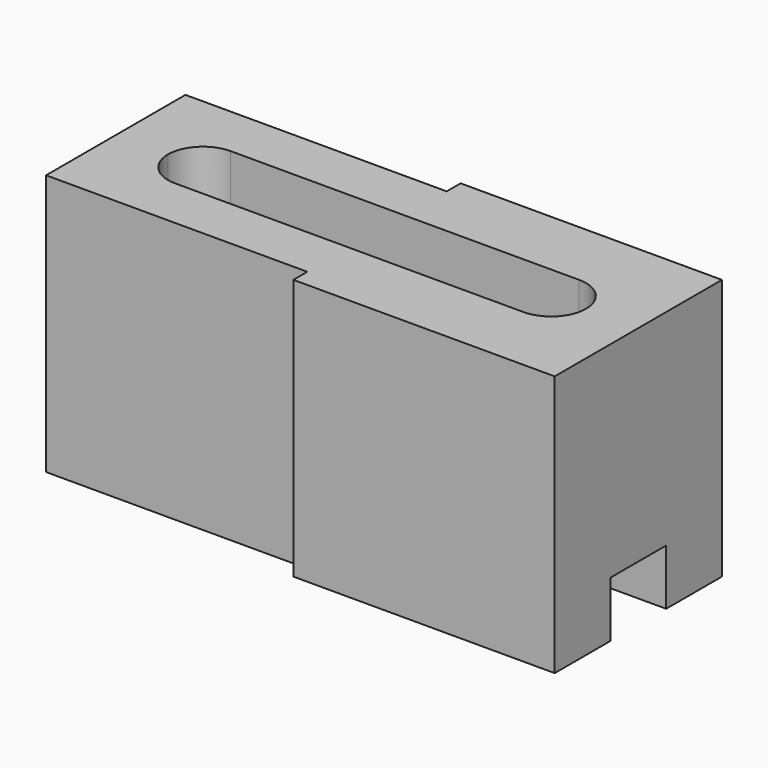
from build123d import *

# Parameters (mm, degrees)
F1_DEPTH = 15
F2_W     = 30
F2_H     = 4
F3_DEPTH = 3.2


with BuildPart() as f1:
    # F0 (on Top) → F1 (new body)
    with BuildSketch(Plane.XY):
        Polygon((0, 5), (-15, 5), (-15, -5), (0, -5), (0, -6), (15, -6), (15, 6), (0, 6), align=None)
        with BuildLine():
            ThreePointArc((-12, 0), (-11.414214, 1.414214), (-10, 2))
            Line((-10, 2), (10, 2))
            ThreePointArc((10, 2), (11.414214, 1.414214), (12, 0))
            ThreePointArc((12, 0), (11.414214, -1.414214), (10, -2))
            Line((10, -2), (-10, -2))
            ThreePointArc((-10, -2), (-11.414214, -1.414214), (-12, 0))
        make_face(mode=Mode.SUBTRACT)
    extrude(amount=F1_DEPTH)

    # F2 (on face) → F3 (cut)
    with BuildSketch(Plane(origin=(0, 0, 0), x_dir=(1, 0, 0), z_dir=(0, 0, -1))):
        Rectangle(F2_W, F2_H)
    extrude(amount=-F3_DEPTH, mode=Mode.SUBTRACT)


solid = f1.part
